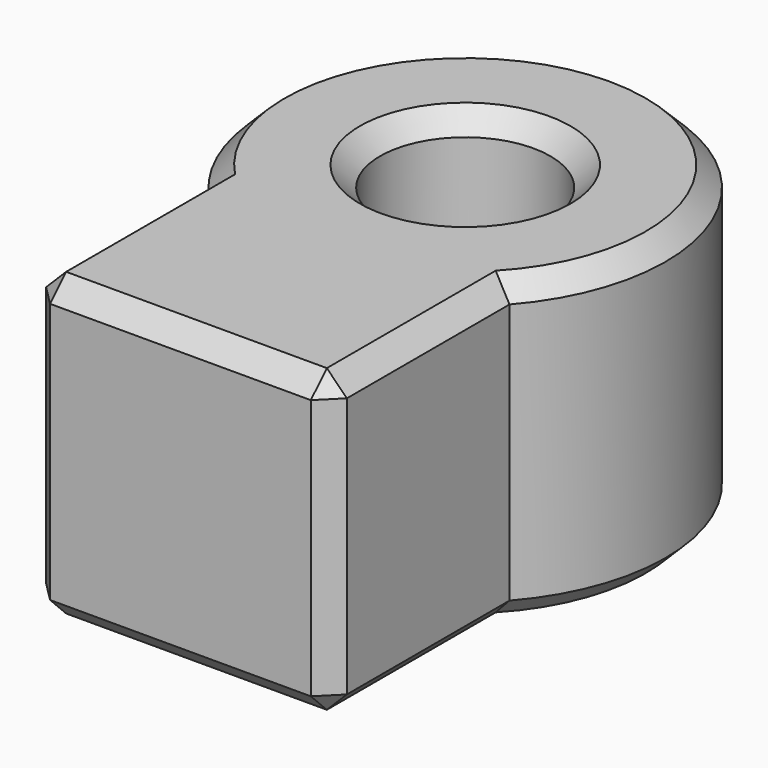
from build123d import *

# Parameters (mm, degrees)
CYLINDER003_R                              = 1.7
CYLINDER003_DEPTH                          = 6
CYLINDER002_R                              = 4
CYLINDER002_DEPTH                          = 6
BOX027_W                                   = 6
BOX027_H                                   = 8
BOX027_DEPTH                               = 6
CHAMFER009008004003002002004004004005_SIZE = 0.4


with BuildPart() as cylinder003:
    # Cylinder003 → Cylinder003 (new body)
    with BuildSketch(Plane.XY):
        Circle(CYLINDER003_R)
    extrude(amount=CYLINDER003_DEPTH)


with BuildPart() as cylinder002:
    # Cylinder002 → Cylinder002 (new body)
    with BuildSketch(Plane.XY):
        Circle(CYLINDER002_R)
    extrude(amount=CYLINDER002_DEPTH)


with BuildPart() as chamfer009008004003002002004004004005:
    # Box027 → Box027 (new body)
    with BuildSketch(Plane(origin=(-3, -7.1, 0), x_dir=(1, 0, 0), z_dir=(0, 0, 1))):
        with Locations((3, 4)):
            Rectangle(BOX027_W, BOX027_H)
    extrude(amount=BOX027_DEPTH)

    # Fusion001004009018: union Cylinder002
    add(cylinder002.part)

    # Cut049: cut Cylinder003
    add(cylinder003.part, mode=Mode.SUBTRACT)

    # Chamfer009008004003002002004004004005
    chamfer009008004003002002004004004005_edges = [chamfer009008004003002002004004004005.edges().sort_by_distance(p)[0] for p in [
        (-3, -4.872876, 6),
        (-3, -4.872876, 0),
        (-3, -7.1, 3),
        (0, -7.1, 0),
        (3, -7.1, 3),
        (0, -7.1, 6),
        (3, -4.872876, 6),
        (3, -4.872876, 0),
        (3.741657, -1.414214, 6),
        (-1.414214, 3.741657, 6),
        (-0.468095, -1.634285, 6),
        (0, 1.7, 6),
        (1.634285, 0.468095, 6),
        (-0.468095, -1.634285, 0),
        (0, 1.7, 0),
        (1.634285, 0.468095, 0),
        (-1.414214, 3.741657, 0),
        (3.741657, -1.414214, 0),
    ]]
    chamfer(chamfer009008004003002002004004004005_edges, length=CHAMFER009008004003002002004004004005_SIZE)


solid = chamfer009008004003002002004004004005.part
